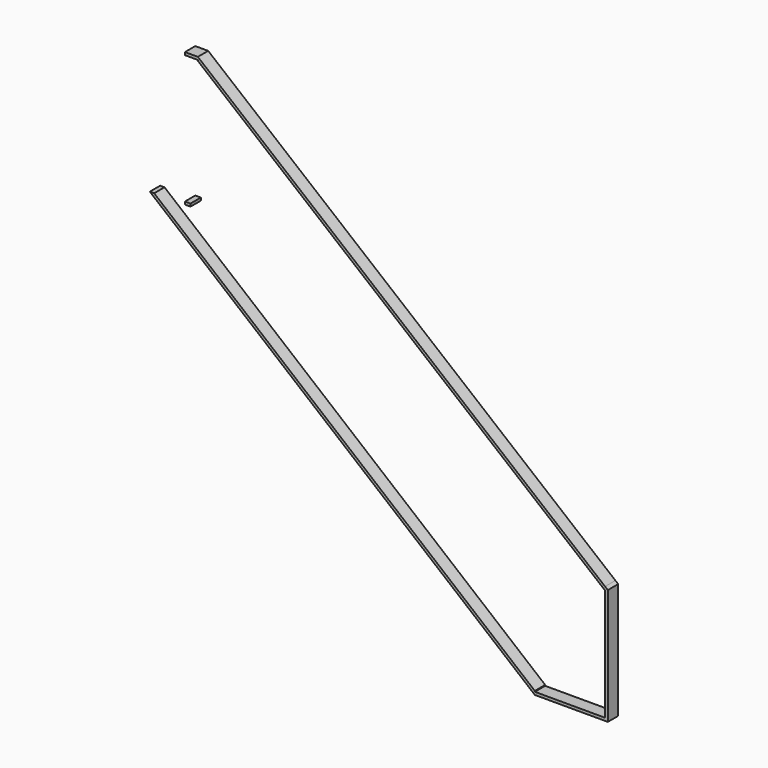
from build123d import *

# Parameters (mm, degrees)
F1_W     = 88.9
F1_H     = 19.05
F2_DEPTH = 88.9
F3_DEPTH = 88.9
F4_DEPTH = 88.9
F1_W_2   = 482.685464
F5_DEPTH = 88.9
F6_DEPTH = 88.9
F7_DEPTH = 88.9


with BuildPart() as f2:
    # F1 (on face) → F2 (new body)
    with BuildSketch(Plane.XZ):
        with Locations((-2887.206499, 3218.4967)):
            Rectangle(F1_W, F1_H)
    extrude(amount=F2_DEPTH)

    # F1 (on face) → F3 (join)
    with BuildSketch(Plane.XZ):
        Polygon((-44.45, 933.871715), (-2842.756499, 3228.0217), (-2842.756499, 3208.9717), (-2842.756499, 3203.387983), (-44.45, 909.237998), align=None)
    extrude(amount=F3_DEPTH)

    # F1 (on face) → F4 (join)
    with BuildSketch(Plane.XZ):
        Polygon((-25.4, 918.253856), (-44.45, 933.871715), (-44.45, 909.237998), (-44.45, 139.7), (-44.45, 120.65), (-25.4, 120.65), align=None)
    extrude(amount=F4_DEPTH)

    # F1 (on face) → F5 (join)
    with BuildSketch(Plane.XZ):
        with Locations((-285.792732, 130.175)):
            Rectangle(F1_W_2, F1_H)
    extrude(amount=F5_DEPTH)

    # F1 (on face) → F6 (join)
    with BuildSketch(Plane.XZ):
        Polygon((-3172.956499, 2305.05), (-527.135464, 120.65), (-527.135464, 139.7), (-527.135464, 145.353537), (-3143.034719, 2305.05), align=None)
    extrude(amount=F6_DEPTH)


with BuildPart() as f7:
    # F1 (on face) → F7 (new body)
    with BuildSketch(Plane.XZ):
        Polygon((-2893.556499, 2324.1), (-2931.656499, 2324.1), (-2931.656499, 2305.05), (-2912.606499, 2305.05), (-2893.556499, 2305.05), align=None)
    extrude(amount=F7_DEPTH)


solid = Compound([f2.part, f7.part])
